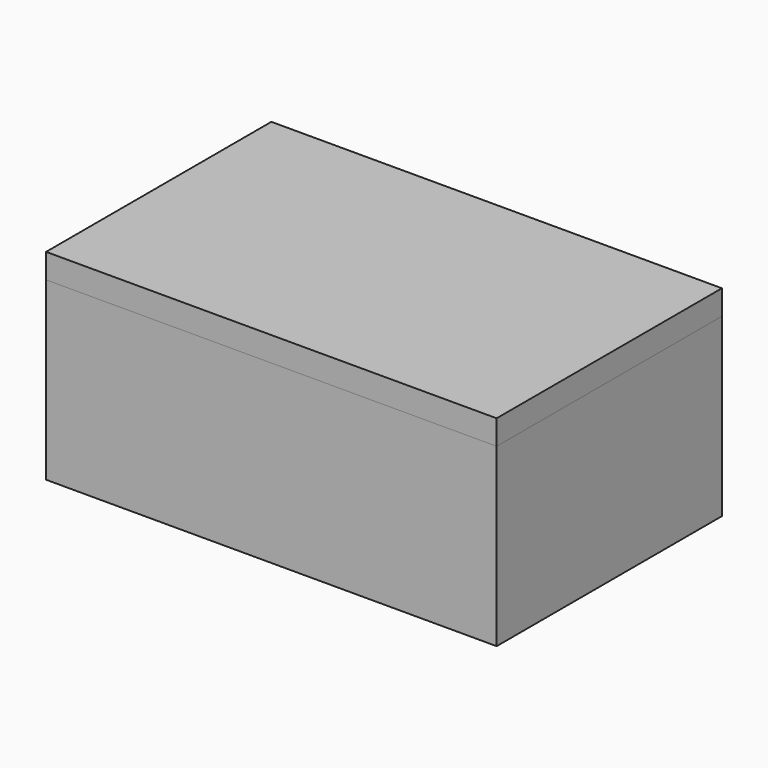
from build123d import *

# Parameters (mm, degrees)
F0_W     = 203.2
F0_H     = 127
F1_DEPTH = 79.375
F2_T     = -11.1125
F3_W     = 203.2
F3_H     = 127
F4_DEPTH = 11.1125


with BuildPart() as f1:
    # F0 (on Top) → F1 (new body)
    with BuildSketch(Plane.XY):
        Rectangle(F0_W, F0_H)
    extrude(amount=F1_DEPTH)

    # F2
    f2_openings = [f1.faces().sort_by_distance(p)[0] for p in [
        (0, 0, 79.375),
    ]]
    offset(amount=F2_T, openings=f2_openings)


with BuildPart() as f4:
    # F3 (on face) → F4 (new body)
    with BuildSketch(Plane.XY.offset(79.375)):
        Rectangle(F3_W, F3_H)
    extrude(amount=F4_DEPTH)


solid = Compound([f1.part, f4.part])
